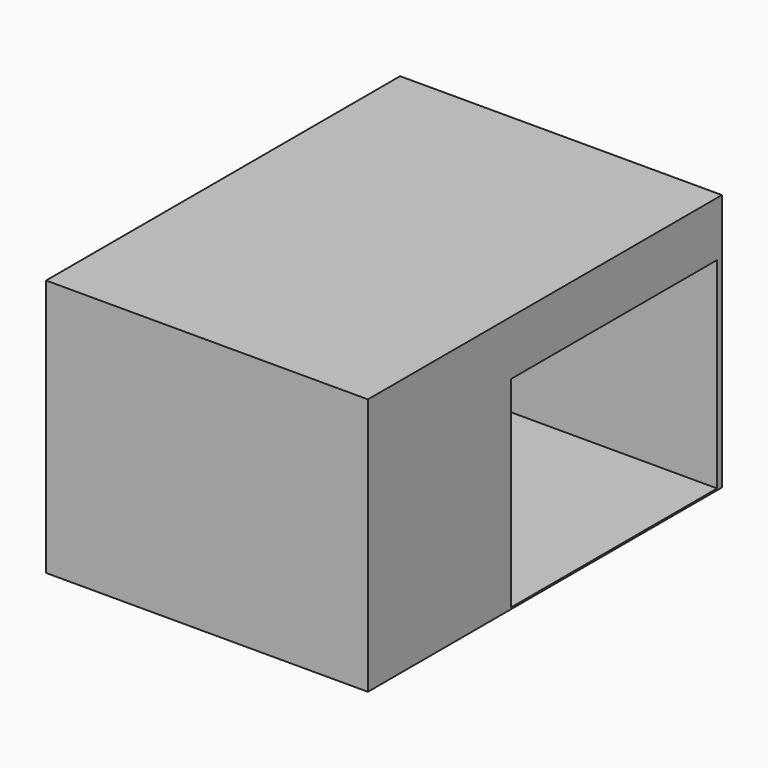
from build123d import *

# Parameters (mm, degrees)
F0_W     = 55
F0_H     = 32
F1_DEPTH = 40
F2_W     = 32
F2_H     = 25
F3_DEPTH = 40


with BuildPart() as f1:
    # F0 (on Right) → F1 (new body)
    with BuildSketch(Plane.YZ):
        with Locations((27.5, -16)):
            Rectangle(F0_W, F0_H)
    extrude(amount=F1_DEPTH)

    # F2 (on Right) → F3 (cut)
    with BuildSketch(Plane.YZ):
        with Locations((38.263893, -19.303276)):
            Rectangle(F2_W, F2_H)
    extrude(amount=F3_DEPTH, mode=Mode.SUBTRACT)


solid = f1.part
